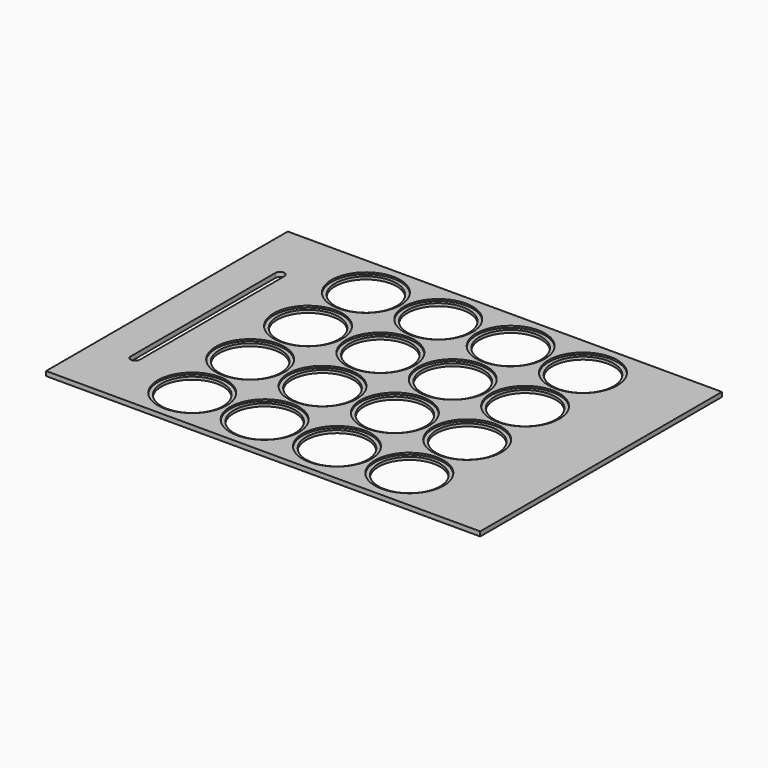
from build123d import *

# Parameters (mm, degrees)
F0_W     = 304.8
F0_H     = 212.09
F0_R     = 21.59
F1_DEPTH = 3.175
F2_R     = 24.13
F3_DEPTH = 1.27


with BuildPart() as f1:
    # F0 (on Top) → F1 (new body)
    with BuildSketch(Plane.XY):
        with Locations((-152.4, 0)):
            Rectangle(F0_W, F0_H)
        with Locations((-226.06, -76.2)):
            Circle(F0_R, mode=Mode.SUBTRACT)
        with Locations((-175.26, -76.2)):
            Circle(F0_R, mode=Mode.SUBTRACT)
        with Locations((-226.06, -25.4)):
            Circle(F0_R, mode=Mode.SUBTRACT)
        with Locations((-175.26, -25.4)):
            Circle(F0_R, mode=Mode.SUBTRACT)
        with Locations((-124.46, -76.2)):
            Circle(F0_R, mode=Mode.SUBTRACT)
        with Locations((-73.66, -76.2)):
            Circle(F0_R, mode=Mode.SUBTRACT)
        with Locations((-124.46, -25.4)):
            Circle(F0_R, mode=Mode.SUBTRACT)
        with Locations((-73.66, -25.4)):
            Circle(F0_R, mode=Mode.SUBTRACT)
        with BuildLine():
            ThreePointArc((-279.4, 63.5), (-276.225, 66.675), (-273.05, 63.5))
            Line((-273.05, 63.5), (-273.05, -63.5))
            ThreePointArc((-273.05, -63.5), (-276.225, -66.675), (-279.4, -63.5))
            Line((-279.4, -63.5), (-279.4, 63.5))
        make_face(mode=Mode.SUBTRACT)
        with Locations((-226.06, 25.4)):
            Circle(F0_R, mode=Mode.SUBTRACT)
        with Locations((-175.26, 25.4)):
            Circle(F0_R, mode=Mode.SUBTRACT)
        with Locations((-226.06, 76.2)):
            Circle(F0_R, mode=Mode.SUBTRACT)
        with Locations((-175.26, 76.2)):
            Circle(F0_R, mode=Mode.SUBTRACT)
        with Locations((-124.46, 25.4)):
            Circle(F0_R, mode=Mode.SUBTRACT)
        with Locations((-73.66, 25.4)):
            Circle(F0_R, mode=Mode.SUBTRACT)
        with Locations((-124.46, 76.2)):
            Circle(F0_R, mode=Mode.SUBTRACT)
        with Locations((-73.66, 76.2)):
            Circle(F0_R, mode=Mode.SUBTRACT)
    extrude(amount=F1_DEPTH)

    # F2 (on face) → F3 (cut)
    with BuildSketch(Plane.XY.offset(3.175)):
        with Locations((-226.06, 76.2)):
            Circle(F2_R)
        with Locations((-226.06, 25.4)):
            Circle(F2_R)
        with Locations((-226.06, -25.4)):
            Circle(F2_R)
        with Locations((-226.06, -76.2)):
            Circle(F2_R)
        with Locations((-175.26, 76.2)):
            Circle(F2_R)
        with Locations((-175.26, 25.4)):
            Circle(F2_R)
        with Locations((-175.26, -25.4)):
            Circle(F2_R)
        with Locations((-175.26, -76.2)):
            Circle(F2_R)
        with Locations((-124.46, 76.2)):
            Circle(F2_R)
        with Locations((-124.46, 25.4)):
            Circle(F2_R)
        with Locations((-124.46, -25.4)):
            Circle(F2_R)
        with Locations((-124.46, -76.2)):
            Circle(F2_R)
        with Locations((-73.66, 76.2)):
            Circle(F2_R)
        with Locations((-73.66, 25.4)):
            Circle(F2_R)
        with Locations((-73.66, -25.4)):
            Circle(F2_R)
        with Locations((-73.66, -76.2)):
            Circle(F2_R)
    extrude(amount=-F3_DEPTH, mode=Mode.SUBTRACT)


solid = f1.part
